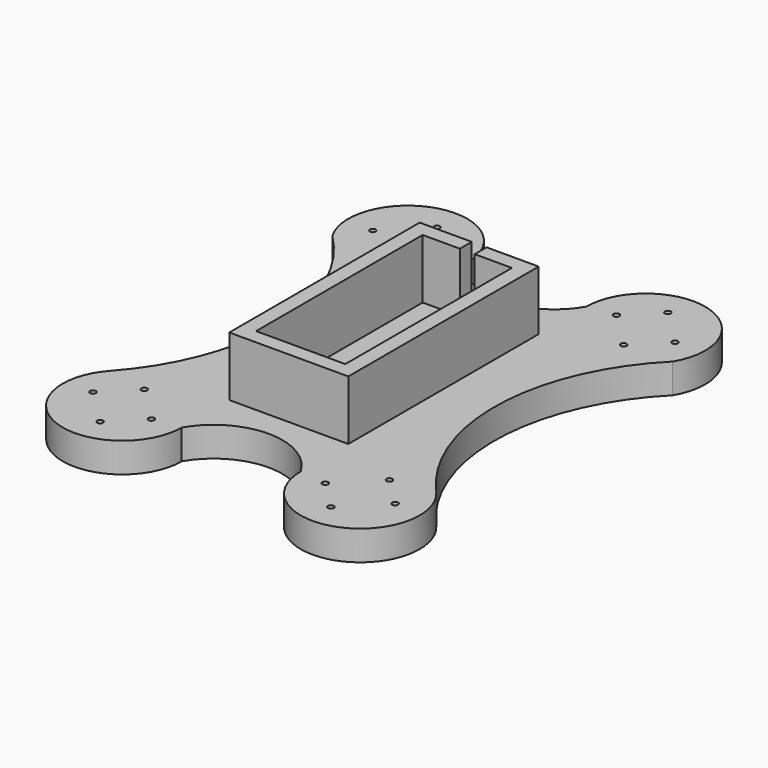
from build123d import *

# Parameters (mm, degrees)
F0_R     = 0.628762
F1_DEPTH = 6.35
F2_W     = 25.4
F2_H     = 50.8
F2_W_2   = 19.05
F2_H_2   = 44.45
F3_DEPTH = 12.7
F5_DEPTH = 25.4


with BuildPart() as f1:
    # F0 (on Top) → F1 (new body)
    with BuildSketch(Plane.XY):
        with BuildLine():
            ThreePointArc((12.7, 38.1), (0, 30.785806), (-12.7, 38.1))
            ThreePointArc((-12.7, 38.1), (-28.751062, 50.349914), (-36.331557, 31.635399))
            ThreePointArc((-36.331557, 31.635399), (-23.370243, 1.385669), (-34.742058, -29.496748))
            ThreePointArc((-34.742058, -29.496748), (-34.825441, -29.589354), (-34.909084, -29.681727))
            ThreePointArc((-34.909084, -29.681727), (-29.901368, -49.975508), (-12.7, -38.1))
            ThreePointArc((-12.7, -38.1), (0, -30.785806), (12.7, -38.1))
            ThreePointArc((12.7, -38.1), (29.901368, -49.975508), (34.909084, -29.681727))
            ThreePointArc((34.909084, -29.681727), (34.825441, -29.589354), (34.742058, -29.496748))
            ThreePointArc((34.742058, -29.496748), (23.370243, 1.385669), (36.331557, 31.635399))
            ThreePointArc((36.331557, 31.635399), (28.751062, 50.349914), (12.7, 38.1))
        make_face()
        with Locations((-24.636335, -44.956376)):
            Circle(F0_R, mode=Mode.SUBTRACT)
        with Locations((-32.256376, -37.336335)):
            Circle(F0_R, mode=Mode.SUBTRACT)
        with Locations((-26.163665, -31.243624)):
            Circle(F0_R, mode=Mode.SUBTRACT)
        with Locations((-18.543624, -38.863665)):
            Circle(F0_R, mode=Mode.SUBTRACT)
        with Locations((18.543624, -38.863665)):
            Circle(F0_R, mode=Mode.SUBTRACT)
        with Locations((24.636335, -44.956376)):
            Circle(F0_R, mode=Mode.SUBTRACT)
        with Locations((26.163665, -31.243624)):
            Circle(F0_R, mode=Mode.SUBTRACT)
        with Locations((32.256376, -37.336335)):
            Circle(F0_R, mode=Mode.SUBTRACT)
        with Locations((-32.256376, 37.336335)):
            Circle(F0_R, mode=Mode.SUBTRACT)
        with Locations((-26.163665, 31.243624)):
            Circle(F0_R, mode=Mode.SUBTRACT)
        with Locations((-24.636335, 44.956376)):
            Circle(F0_R, mode=Mode.SUBTRACT)
        with Locations((-18.543624, 38.863665)):
            Circle(F0_R, mode=Mode.SUBTRACT)
        with Locations((18.543624, 38.863665)):
            Circle(F0_R, mode=Mode.SUBTRACT)
        with Locations((26.163665, 31.243624)):
            Circle(F0_R, mode=Mode.SUBTRACT)
        with Locations((32.256376, 37.336335)):
            Circle(F0_R, mode=Mode.SUBTRACT)
        with Locations((24.636335, 44.956376)):
            Circle(F0_R, mode=Mode.SUBTRACT)
        with BuildLine():
            ThreePointArc((-34.909084, -29.681727), (-34.825441, -29.589354), (-34.742058, -29.496748))
            ThreePointArc((-34.742058, -29.496748), (-34.826025, -29.588828), (-34.909084, -29.681727))
        make_face()
        with BuildLine():
            ThreePointArc((34.909084, -29.681727), (34.826025, -29.588828), (34.742058, -29.496748))
            ThreePointArc((34.742058, -29.496748), (34.825441, -29.589354), (34.909084, -29.681727))
        make_face()
    extrude(amount=F1_DEPTH)

    # F2 (on face) → F3 (join)
    with BuildSketch(Plane.XY.offset(6.35)):
        Rectangle(F2_W, F2_H)
        Rectangle(F2_W_2, F2_H_2, mode=Mode.SUBTRACT)
    extrude(amount=F3_DEPTH)

    # F4 (on face) → F5 (cut)
    with BuildSketch(Plane(origin=(0, 25.4, 0), x_dir=(-1, 0, 0), z_dir=(0, 1, 0))):
        with BuildLine():
            Line((1.5875, 19.05), (-1.5875, 19.05))
            Line((-1.5875, 19.05), (-1.5875, 9.2075))
            ThreePointArc((-1.5875, 9.2075), (0, 7.62), (1.5875, 9.2075))
            Line((1.5875, 9.2075), (1.5875, 19.05))
        make_face()
    extrude(amount=-F5_DEPTH, mode=Mode.SUBTRACT)


solid = f1.part
